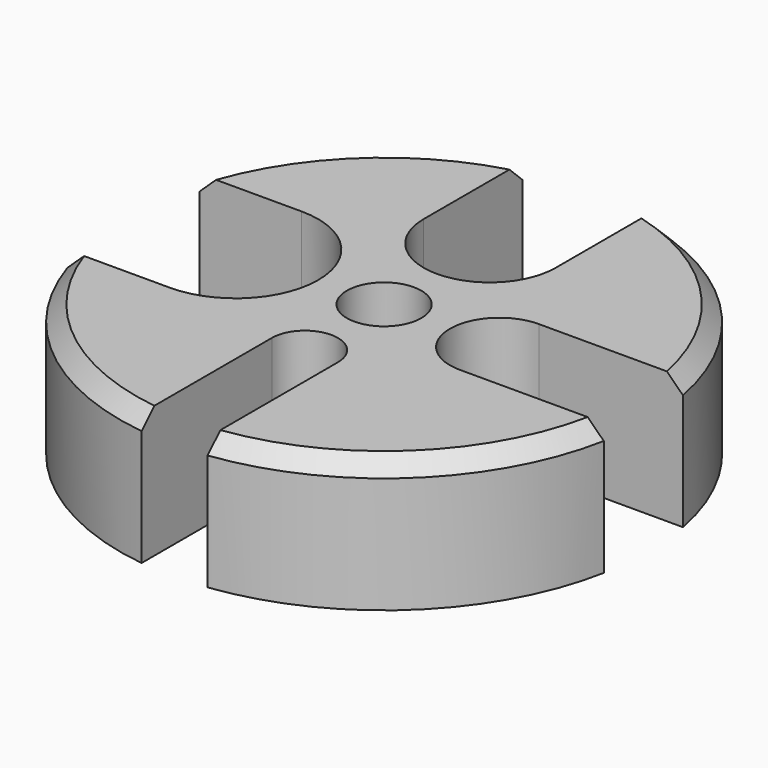
from build123d import *

# Parameters (mm, degrees)
F0_R     = 3.5814
F1_DEPTH = 12.7
F2_SIZE2 = 1.524
F2_SIZE  = 1.524


with BuildPart() as f1:
    # F0 (on Top) → F1 (new body)
    with BuildSketch(Plane.XY):
        with BuildLine():
            Line((-14.2748, -7.9375), (-24.127911, -7.9375))
            ThreePointArc((-24.127911, -7.9375), (-16.151392, -19.603381), (-3.175, -25.200781))
            Line((-3.175, -25.200781), (-3.175, -9.525))
            ThreePointArc((-3.175, -9.525), (0, -6.35), (3.175, -9.525))
            Line((3.175, -9.525), (3.175, -25.200781))
            ThreePointArc((3.175, -25.200781), (17.383268, -18.519773), (24.949521, -4.7625))
            Line((24.949521, -4.7625), (11.0998, -4.7625))
            ThreePointArc((11.0998, -4.7625), (6.3373, 0), (11.0998, 4.7625))
            Line((11.0998, 4.7625), (24.949521, 4.7625))
            ThreePointArc((24.949521, 4.7625), (18.52651, 17.376087), (6.35, 24.593444))
            Line((6.35, 24.593444), (6.35, 12.7))
            ThreePointArc((6.35, 12.7), (0, 6.35), (-6.35, 12.7))
            Line((-6.35, 12.7), (-6.35, 24.593444))
            ThreePointArc((-6.35, 24.593444), (-17.366084, 18.535887), (-24.127911, 7.9375))
            Line((-24.127911, 7.9375), (-14.2748, 7.9375))
            ThreePointArc((-14.2748, 7.9375), (-6.3373, 0), (-14.2748, -7.9375))
        make_face()
        Circle(F0_R, mode=Mode.SUBTRACT)
    extrude(amount=F1_DEPTH)

    # F2
    f2_edges = [f1.edges().sort_by_distance(p)[0] for p in [
        (-17.366084, 18.535887, 12.7),
        (18.52651, 17.376087, 12.7),
        (17.383268, -18.519773, 12.7),
        (-16.151392, -19.603381, 12.7),
    ]]
    chamfer(f2_edges, length=F2_SIZE, length2=F2_SIZE2)


solid = f1.part
